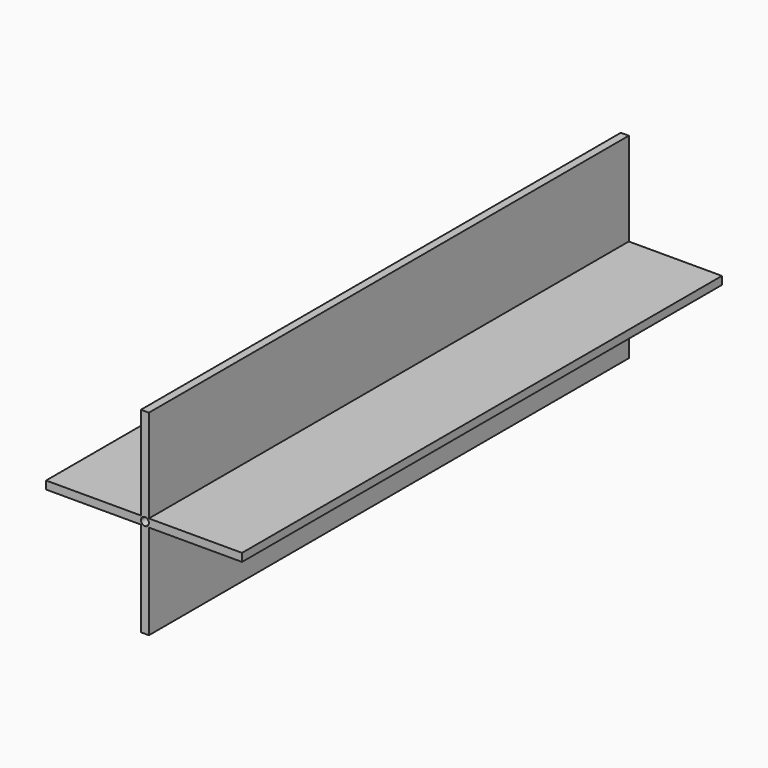
from build123d import *

# Parameters (mm, degrees)
F0_W     = 1
F0_H     = 23.712712457
F0_W_2   = 23.287287543
F0_H_2   = 1
F0_W_3   = 0.9997733106
F0_H_3   = 23.287287543
F1_DEPTH = 150


with BuildPart() as f1:
    # F0 (on Front) → F1 (new body)
    with BuildSketch(Plane.XZ):
        Polygon((-0.9997733095, -24.7340039941), (0, -24.712712457), (0, -1), (-0.9997733095, -1), align=None)
        with Locations((0.5, -12.8563562285)):
            Rectangle(F0_W, F0_H)
        with BuildLine():
            ThreePointArc((1, 0), (0.7071067822, -0.7071067802), (2.9e-09, -1))
            Line((2.9e-09, -1), (1, -1))
            Line((1, -1), (1, 0))
        make_face()
        with BuildLine():
            Line((-0.9997733095, -1), (2.9e-09, -1))
            ThreePointArc((2.9e-09, -1), (-0.6995385836, -0.7145948293), (-0.9997733095, -0.0212915371))
            Line((-0.9997733095, -0.0212915371), (-0.9997733095, -1))
        make_face()
        with BuildLine():
            Line((-24.712712457, -1), (-0.9997733095, -1))
            Line((-0.9997733095, -1), (-0.9997733095, -0.0212915371))
            ThreePointArc((-0.9997733095, -0.0212915371), (-0.9999433258, -0.0106463719), (-1, 0))
            Line((-1, 0), (-24.712712457, 0))
            Line((-24.712712457, 0), (-24.712712457, -1))
        make_face()
        with Locations((12.6436437715, -0.5)):
            Rectangle(F0_W_2, F0_H_2)
        with Locations((12.6436437715, 0.5)):
            Rectangle(F0_W_2, F0_H_2)
        with BuildLine():
            ThreePointArc((1e-09, 1), (0.7071067815, 0.7071067808), (1, 0))
            Line((1, 0), (1, 1))
            Line((1, 1), (1e-09, 1))
        make_face()
        with Locations((-0.4998866543, 12.6436437715)):
            Rectangle(F0_W_3, F0_H_3)
        with BuildLine():
            ThreePointArc((-0.9997733095, 0.0212915371), (-0.6995385843, 0.7145948286), (1e-09, 1))
            Line((1e-09, 1), (-0.9997733095, 1))
            Line((-0.9997733095, 1), (-0.9997733095, 0.0212915371))
        make_face()
        with Locations((0.5, 12.6436437715)):
            Rectangle(F0_W, F0_H_3)
        with BuildLine():
            Line((-24.712712457, 0), (-1, 0))
            ThreePointArc((-1, 0), (-0.9999433258, 0.0106463719), (-0.9997733095, 0.0212915371))
            Line((-0.9997733095, 0.0212915371), (-0.9997733095, 1))
            Line((-0.9997733095, 1), (-24.712712457, 1))
            Line((-24.712712457, 1), (-24.712712457, 0))
        make_face()
    extrude(amount=F1_DEPTH)


solid = f1.part
